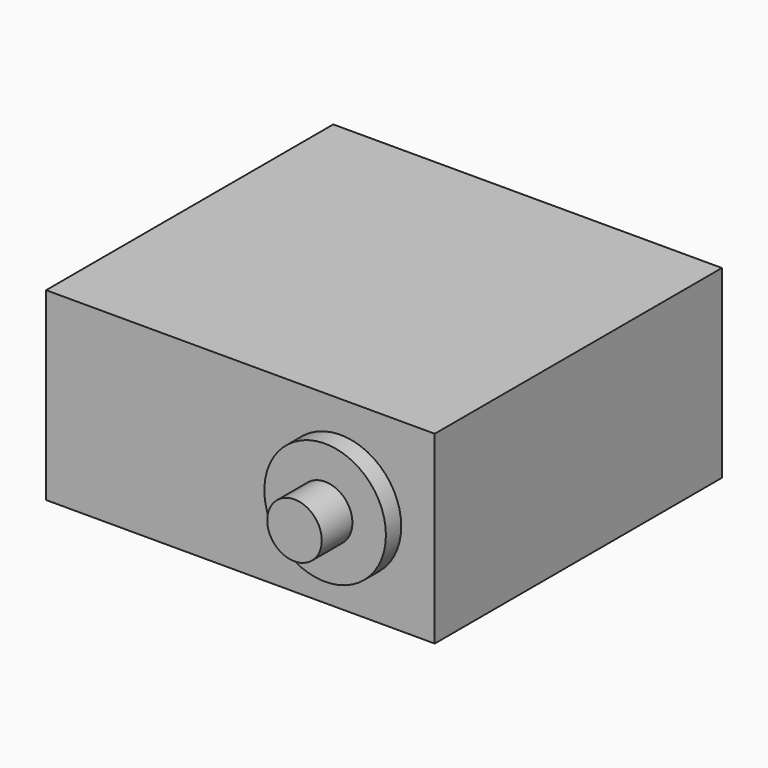
from build123d import *

# Parameters (mm, degrees)
F0_W     = 40.6
F0_H     = 19.3
F1_DEPTH = 37.5
F2_R     = 6.35
F3_DEPTH = 2
F4_R     = 2.85
F5_DEPTH = 4


with BuildPart() as f1:
    # F0 (on Front) → F1 (new body)
    with BuildSketch(Plane.XZ):
        Rectangle(F0_W, F0_H)
    extrude(amount=F1_DEPTH)

    # F2 (on face) → F3 (join)
    with BuildSketch(Plane.XZ.offset(37.5)):
        with Locations((10.45, 0)):
            Circle(F2_R)
    extrude(amount=F3_DEPTH)

    # F4 (on face) → F5 (join)
    with BuildSketch(Plane.XZ.offset(39.5)):
        with Locations((10.45, 0)):
            Circle(F4_R)
    extrude(amount=F5_DEPTH)


solid = f1.part
